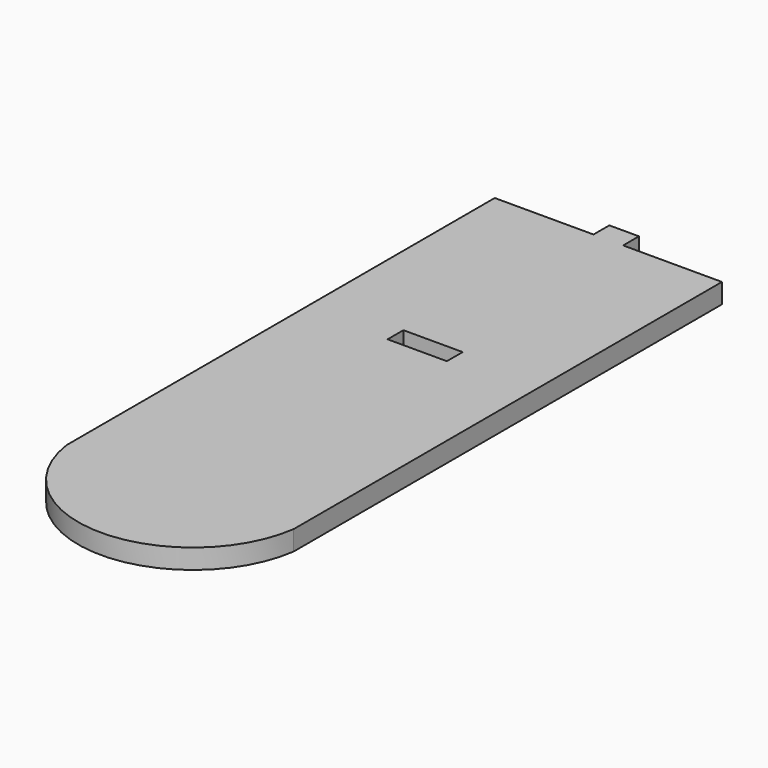
from build123d import *

# Parameters (mm, degrees)
F0_W     = 30
F0_H     = 10
F1_DEPTH = 10


with BuildPart() as f1:
    # F0 (on Top) → F1 (new body)
    with BuildSketch(Plane.XY):
        with BuildLine():
            Line((157.922938, 37.169032), (107.922938, 37.169032))
            Line((107.922938, 37.169032), (107.922938, -233.730968))
            ThreePointArc((107.922938, -233.730968), (165.422938, -283.730968), (222.922938, -233.730968))
            Line((222.922938, -233.730968), (222.922938, 37.169032))
            Line((222.922938, 37.169032), (172.922938, 37.169032))
            Line((172.922938, 37.169032), (172.922938, 47.169032))
            Line((172.922938, 47.169032), (157.922938, 47.169032))
            Line((157.922938, 47.169032), (157.922938, 37.169032))
        make_face()
        with Locations((165.422938, -78.730968)):
            Rectangle(F0_W, F0_H, mode=Mode.SUBTRACT)
    extrude(amount=F1_DEPTH)


solid = f1.part
